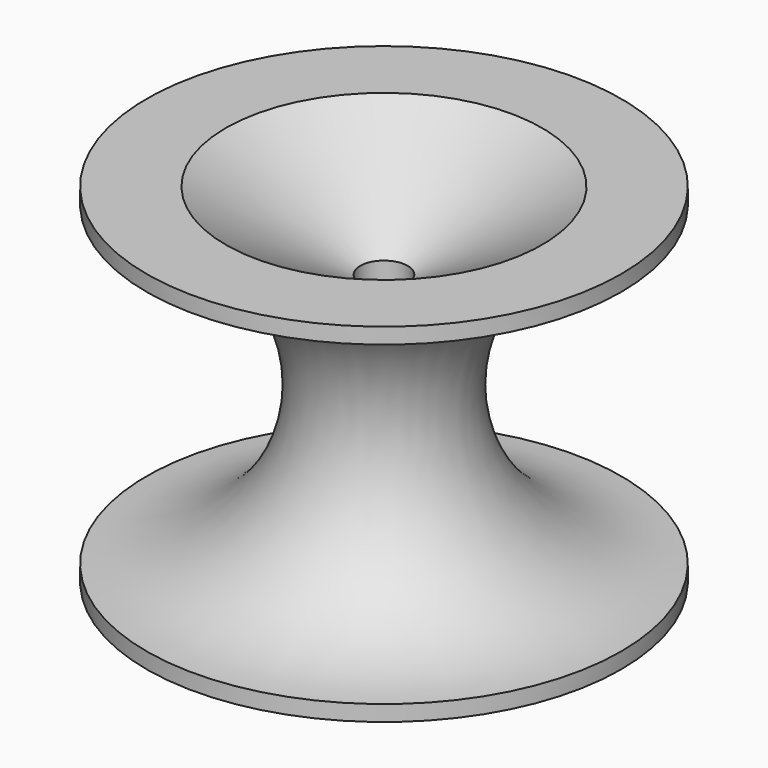
from build123d import *

# Parameters (mm, degrees)
F2_DEPTH       = 1
F3_DEPTH       = 1
F5_D           = 3
F5_DEPTH       = 11
F5_CSINK_D     = 20
F5_CSINK_ANGLE = 120
F5_TIP         = 0.9012909285
F7_D           = 3
F7_DEPTH       = 11
F7_CSINK_D     = 20
F7_CSINK_ANGLE = 120
F7_TIP         = 0.9012909285


with BuildPart() as f1:
    # F0 (on Front) → F1 (revolve)
    with BuildSketch(Plane.XZ):
        with BuildLine():
            ThreePointArc((15, -10), (5, 0), (15, 10))
            Line((15, 10), (0, 10))
            Line((0, 10), (0, -10))
            Line((0, -10), (15, -10))
        make_face()
    revolve(axis=Axis((0, 0, 0), (0, 0, 1)))

    # F2 (add): a face of the model
    f2_faces = [f1.faces().sort_by_distance(p)[0] for p in [
        (0, 0, 10),
    ]]
    extrude(f2_faces, amount=F2_DEPTH)

    # F3 (add): a face of the model
    f3_faces = [f1.faces().sort_by_distance(p)[0] for p in [
        (0, 0, -10),
    ]]
    extrude(f3_faces, amount=F3_DEPTH)

    # F5
    with Locations(Plane.XY.offset(11)):
        with Locations((0, 0)):
            CounterSinkHole(F5_D / 2, F5_CSINK_D / 2, depth=F5_DEPTH, counter_sink_angle=F5_CSINK_ANGLE)
            with Locations((0, 0, -(F5_DEPTH + F5_TIP / 2))):  # 118° drill point
                Cone(0, F5_D / 2, F5_TIP, mode=Mode.SUBTRACT)

    # F7
    with Locations(Plane(origin=(0, 0, -11), x_dir=(1, 0, 0), z_dir=(0, 0, -1))):
        with Locations((0, 0)):
            CounterSinkHole(F7_D / 2, F7_CSINK_D / 2, depth=F7_DEPTH, counter_sink_angle=F7_CSINK_ANGLE)
            with Locations((0, 0, -(F7_DEPTH + F7_TIP / 2))):  # 118° drill point
                Cone(0, F7_D / 2, F7_TIP, mode=Mode.SUBTRACT)


solid = f1.part
